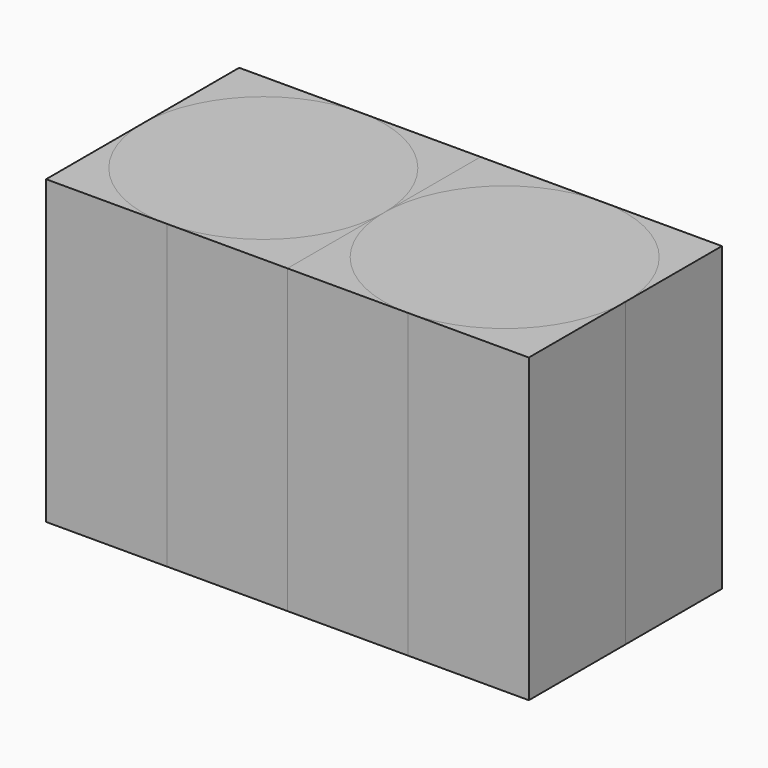
from build123d import *

# Parameters (mm, degrees)
F1_DEPTH = 25
F2_DEPTH = 25
F3_DEPTH = 25


with BuildPart() as f1:
    # F0 (on Top) → F1 (new body)
    with BuildSketch(Plane.XY):
        with BuildLine():
            Line((-60.1794990897, 13.6463295169), (-70.1794990897, 13.6463295169))
            Line((-70.1794990897, 13.6463295169), (-70.1794990897, 3.6463295169))
            ThreePointArc((-70.1794990897, 3.6463295169), (-67.2505669016, 10.7173973287), (-60.1794990897, 13.6463295169))
        make_face()
    extrude(amount=F1_DEPTH)


with BuildPart() as f1b:
    # F0 (on Top) → F1, piece 2 (new body)
    with BuildSketch(Plane.XY):
        with BuildLine():
            Line((-50.1794990897, -6.3536704831), (-50.1794990897, 3.6463295169))
            ThreePointArc((-50.1794990897, 3.6463295169), (-53.1084312779, -3.424738295), (-60.1794990897, -6.3536704831))
            Line((-60.1794990897, -6.3536704831), (-50.1794990897, -6.3536704831))
        make_face()
    extrude(amount=F1_DEPTH)


with BuildPart() as f1c:
    # F0 (on Top) → F1, piece 3 (new body)
    with BuildSketch(Plane.XY):
        with BuildLine():
            Line((-40.1794990897, 13.6463295169), (-50.1794990897, 13.6463295169))
            Line((-50.1794990897, 13.6463295169), (-50.1794990897, 3.6463295169))
            ThreePointArc((-50.1794990897, 3.6463295169), (-47.2505669016, 10.7173973287), (-40.1794990897, 13.6463295169))
        make_face()
    extrude(amount=F1_DEPTH)


with BuildPart() as f1d:
    # F0 (on Top) → F1, piece 4 (new body)
    with BuildSketch(Plane.XY):
        with BuildLine():
            ThreePointArc((-30.1794990897, 3.6463295169), (-33.1084312779, -3.424738295), (-40.1794990897, -6.3536704831))
            Line((-40.1794990897, -6.3536704831), (-30.1794990897, -6.3536704831))
            Line((-30.1794990897, -6.3536704831), (-30.1794990897, 3.6463295169))
        make_face()
    extrude(amount=F1_DEPTH)


with BuildPart() as f2:
    # F0 (on Top) → F2 (new body)
    with BuildSketch(Plane.XY):
        with BuildLine():
            ThreePointArc((-60.1794990897, -6.3536704831), (-67.2505669016, -3.424738295), (-70.1794990897, 3.6463295169))
            Line((-70.1794990897, 3.6463295169), (-70.1794990897, -6.3536704831))
            Line((-70.1794990897, -6.3536704831), (-60.1794990897, -6.3536704831))
        make_face()
    extrude(amount=F2_DEPTH)


with BuildPart() as f2b:
    # F0 (on Top) → F2, piece 2 (new body)
    with BuildSketch(Plane.XY):
        with BuildLine():
            Line((-50.1794990897, 13.6463295169), (-60.1794990897, 13.6463295169))
            ThreePointArc((-60.1794990897, 13.6463295169), (-53.1084312779, 10.7173973287), (-50.1794990897, 3.6463295169))
            Line((-50.1794990897, 3.6463295169), (-50.1794990897, 13.6463295169))
        make_face()
    extrude(amount=F2_DEPTH)


with BuildPart() as f2c:
    # F0 (on Top) → F2, piece 3 (new body)
    with BuildSketch(Plane.XY):
        with BuildLine():
            ThreePointArc((-40.1794990897, -6.3536704831), (-47.2505669016, -3.424738295), (-50.1794990897, 3.6463295169))
            Line((-50.1794990897, 3.6463295169), (-50.1794990897, -6.3536704831))
            Line((-50.1794990897, -6.3536704831), (-40.1794990897, -6.3536704831))
        make_face()
    extrude(amount=F2_DEPTH)


with BuildPart() as f2d:
    # F0 (on Top) → F2, piece 4 (new body)
    with BuildSketch(Plane.XY):
        with BuildLine():
            Line((-30.1794990897, 13.6463295169), (-40.1794990897, 13.6463295169))
            ThreePointArc((-40.1794990897, 13.6463295169), (-33.1084312779, 10.7173973287), (-30.1794990897, 3.6463295169))
            Line((-30.1794990897, 3.6463295169), (-30.1794990897, 13.6463295169))
        make_face()
    extrude(amount=F2_DEPTH)


with BuildPart() as f3:
    # F0 (on Top) → F3 (new body)
    with BuildSketch(Plane.XY):
        with BuildLine():
            ThreePointArc((-50.1794990897, 3.6463295169), (-53.1084312779, 10.7173973287), (-60.1794990897, 13.6463295169))
            ThreePointArc((-60.1794990897, 13.6463295169), (-67.2505669016, 10.7173973287), (-70.1794990897, 3.6463295169))
            ThreePointArc((-70.1794990897, 3.6463295169), (-67.2505669016, -3.424738295), (-60.1794990897, -6.3536704831))
            ThreePointArc((-60.1794990897, -6.3536704831), (-53.1084312779, -3.424738295), (-50.1794990897, 3.6463295169))
        make_face()
    extrude(amount=F3_DEPTH)


with BuildPart() as f3b:
    # F0 (on Top) → F3, piece 2 (new body)
    with BuildSketch(Plane.XY):
        with BuildLine():
            ThreePointArc((-40.1794990897, 13.6463295169), (-47.2505669016, 10.7173973287), (-50.1794990897, 3.6463295169))
            ThreePointArc((-50.1794990897, 3.6463295169), (-47.2505669016, -3.424738295), (-40.1794990897, -6.3536704831))
            ThreePointArc((-40.1794990897, -6.3536704831), (-33.1084312779, -3.424738295), (-30.1794990897, 3.6463295169))
            ThreePointArc((-30.1794990897, 3.6463295169), (-33.1084312779, 10.7173973287), (-40.1794990897, 13.6463295169))
        make_face()
    extrude(amount=F3_DEPTH)


solid = Compound([f1.part, f1b.part, f1c.part, f1d.part, f2.part, f2b.part, f2c.part, f2d.part, f3.part, f3b.part])
